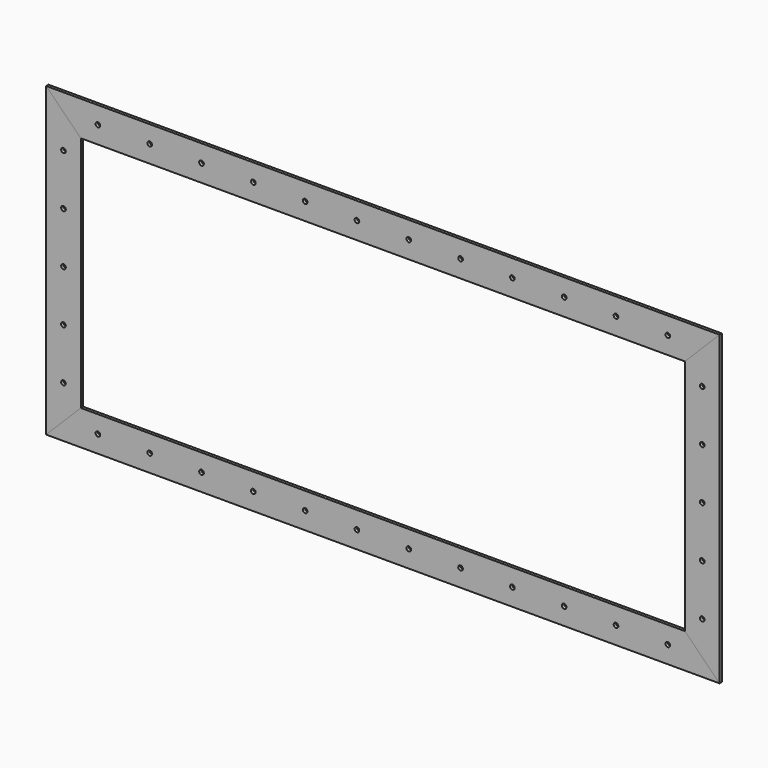
from build123d import *

# Parameters (mm, degrees)
F0_R     = 4
F2_DEPTH = 2.5
F1_R     = 4


with BuildPart() as f2:
    # F0 (on Front) → F2 (new body, symmetric)
    with BuildSketch(Plane.XZ):
        Polygon((-521.5, 0), (-581.5, -60), (581.5, -60), (521.5, 0), align=None)
        with Locations((-492.02, -30)):
            Circle(F0_R, mode=Mode.SUBTRACT)
        with Locations((-402.56, -30)):
            Circle(F0_R, mode=Mode.SUBTRACT)
        with Locations((-313.1, -30)):
            Circle(F0_R, mode=Mode.SUBTRACT)
        with Locations((-223.64, -30)):
            Circle(F0_R, mode=Mode.SUBTRACT)
        with Locations((-134.18, -30)):
            Circle(F0_R, mode=Mode.SUBTRACT)
        with Locations((-44.72, -30)):
            Circle(F0_R, mode=Mode.SUBTRACT)
        with Locations((44.74, -30)):
            Circle(F0_R, mode=Mode.SUBTRACT)
        with Locations((134.2, -30)):
            Circle(F0_R, mode=Mode.SUBTRACT)
        with Locations((223.66, -30)):
            Circle(F0_R, mode=Mode.SUBTRACT)
        with Locations((313.12, -30)):
            Circle(F0_R, mode=Mode.SUBTRACT)
        with Locations((402.58, -30)):
            Circle(F0_R, mode=Mode.SUBTRACT)
        with Locations((492.04, -30)):
            Circle(F0_R, mode=Mode.SUBTRACT)
    extrude(amount=F2_DEPTH, both=True)


with BuildPart() as f2b:
    # F0 (on Front) → F2, piece 2 (new body, symmetric)
    with BuildSketch(Plane.XZ):
        Polygon((581.5, 470), (-581.5, 470), (-521.5, 410), (521.5, 410), align=None)
        with Locations((-492.02, 440)):
            Circle(F0_R, mode=Mode.SUBTRACT)
        with Locations((-402.56, 440)):
            Circle(F0_R, mode=Mode.SUBTRACT)
        with Locations((-313.1, 440)):
            Circle(F0_R, mode=Mode.SUBTRACT)
        with Locations((-223.64, 440)):
            Circle(F0_R, mode=Mode.SUBTRACT)
        with Locations((-134.18, 440)):
            Circle(F0_R, mode=Mode.SUBTRACT)
        with Locations((-44.72, 440)):
            Circle(F0_R, mode=Mode.SUBTRACT)
        with Locations((44.74, 440)):
            Circle(F0_R, mode=Mode.SUBTRACT)
        with Locations((134.2, 440)):
            Circle(F0_R, mode=Mode.SUBTRACT)
        with Locations((223.66, 440)):
            Circle(F0_R, mode=Mode.SUBTRACT)
        with Locations((313.12, 440)):
            Circle(F0_R, mode=Mode.SUBTRACT)
        with Locations((402.58, 440)):
            Circle(F0_R, mode=Mode.SUBTRACT)
        with Locations((492.04, 440)):
            Circle(F0_R, mode=Mode.SUBTRACT)
    extrude(amount=F2_DEPTH, both=True)


with BuildPart() as f2c:
    # F1 (on Front) → F2, piece 3 (new body, symmetric)
    with BuildSketch(Plane.XZ):
        Polygon((-581.5, 470), (-581.5, -60), (-521.5, 0), (-521.5, 410), align=None)
        with Locations((-551.5, 28.33)):
            Circle(F1_R, mode=Mode.SUBTRACT)
        with Locations((-551.5, 116.66)):
            Circle(F1_R, mode=Mode.SUBTRACT)
        with Locations((-551.5, 204.99)):
            Circle(F1_R, mode=Mode.SUBTRACT)
        with Locations((-551.5, 293.32)):
            Circle(F1_R, mode=Mode.SUBTRACT)
        with Locations((-551.5, 381.65)):
            Circle(F1_R, mode=Mode.SUBTRACT)
    extrude(amount=F2_DEPTH, both=True)


with BuildPart() as f2d:
    # F1 (on Front) → F2, piece 4 (new body, symmetric)
    with BuildSketch(Plane.XZ):
        Polygon((521.5, 0), (581.5, -60), (581.5, 470), (521.5, 410), align=None)
        with Locations((551.5, 28.33)):
            Circle(F1_R, mode=Mode.SUBTRACT)
        with Locations((551.5, 116.66)):
            Circle(F1_R, mode=Mode.SUBTRACT)
        with Locations((551.5, 204.99)):
            Circle(F1_R, mode=Mode.SUBTRACT)
        with Locations((551.5, 293.32)):
            Circle(F1_R, mode=Mode.SUBTRACT)
        with Locations((551.5, 381.65)):
            Circle(F1_R, mode=Mode.SUBTRACT)
    extrude(amount=F2_DEPTH, both=True)


solid = Compound([f2.part, f2b.part, f2c.part, f2d.part])
